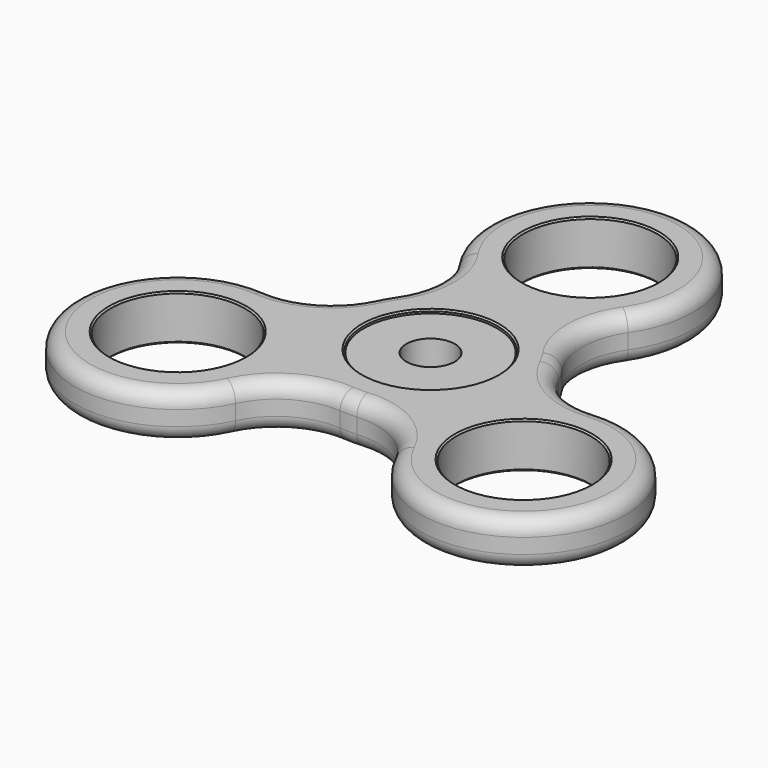
from build123d import *

# Parameters (mm, degrees)
F0_R     = 11
F0_R_2   = 4
F1_DEPTH = 7
F2_R     = 11.12
F3_DEPTH = 7.5
F4_R     = 2.5
F5_SIZE  = 0.25


with BuildPart() as f1:
    # F0 (on Top) → F1 (new body)
    with BuildSketch(Plane.XY):
        Circle(F0_R)
        Circle(F0_R_2, mode=Mode.SUBTRACT)
    extrude(amount=F1_DEPTH)


with BuildPart() as f3:
    # F2 (on Top) → F3 (new body)
    with BuildSketch(Plane.XY):
        with BuildLine():
            ThreePointArc((-13.212211, -23.770952), (-8.365179, -18.511085), (-1.386484, -16.943366))
            ThreePointArc((-1.386484, -16.943366), (0, -17), (1.386484, -16.943366))
            ThreePointArc((1.386484, -16.943366), (8.365179, -18.511085), (13.212211, -23.770952))
            ThreePointArc((13.212211, -23.770952), (43.30127, -25), (27.192354, 0.443366))
            ThreePointArc((27.192354, 0.443366), (20.213659, 2.011085), (15.366628, 7.270952))
            ThreePointArc((15.366628, 7.270952), (14.722432, 8.5), (13.980143, 9.672414))
            ThreePointArc((13.980143, 9.672414), (11.84848, 16.5), (13.980143, 23.327586))
            ThreePointArc((13.980143, 23.327586), (0, 50), (-13.980143, 23.327586))
            ThreePointArc((-13.980143, 23.327586), (-11.84848, 16.5), (-13.980143, 9.672414))
            ThreePointArc((-13.980143, 9.672414), (-14.722432, 8.5), (-15.366628, 7.270952))
            ThreePointArc((-15.366628, 7.270952), (-20.213659, 2.011085), (-27.192354, 0.443366))
            ThreePointArc((-27.192354, 0.443366), (-43.30127, -25), (-13.212211, -23.770952))
        make_face()
        with Locations((-28.578838, -16.5)):
            Circle(F2_R, mode=Mode.SUBTRACT)
        with Locations((28.578838, -16.5)):
            Circle(F2_R, mode=Mode.SUBTRACT)
        Circle(F2_R, mode=Mode.SUBTRACT)
        with Locations((0, 33)):
            Circle(F2_R, mode=Mode.SUBTRACT)
    extrude(amount=F3_DEPTH)

    # F4
    f4_edges = [f3.edges().sort_by_distance(p)[0] for p in [
        (-8.365179, -18.511085, 7.5),
        (0, 50, 0),
    ]]
    fillet(f4_edges, radius=F4_R)

    # F5
    f5_edges = [f3.edges().sort_by_distance(p)[0] for p in [
        (-39.698838, -16.5, 0),
        (-11.12, 33, 0),
        (17.458838, -16.5, 0),
        (17.458838, -16.5, 7.5),
        (-39.698838, -16.5, 7.5),
        (-11.12, 33, 7.5),
        (-11.12, 0, 7.5),
        (-11.12, 0, 0),
    ]]
    chamfer(f5_edges, length=F5_SIZE)


solid = Compound([f1.part, f3.part])
